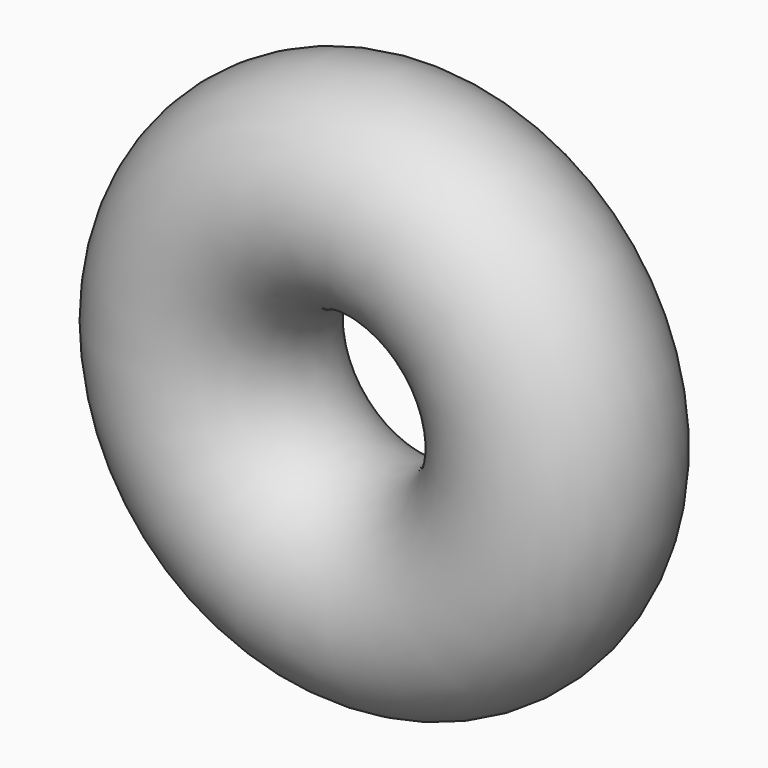
from build123d import *

# Parameters (mm, degrees)
F0_R = 39.65575


with BuildPart() as f2:
    # F0 (on Top) → F2 (revolve)
    with BuildSketch(Plane.XY):
        Circle(F0_R)
    revolve(axis=Axis((66.724375, -2.932951, 0), (0, -1, 0)))


solid = f2.part
